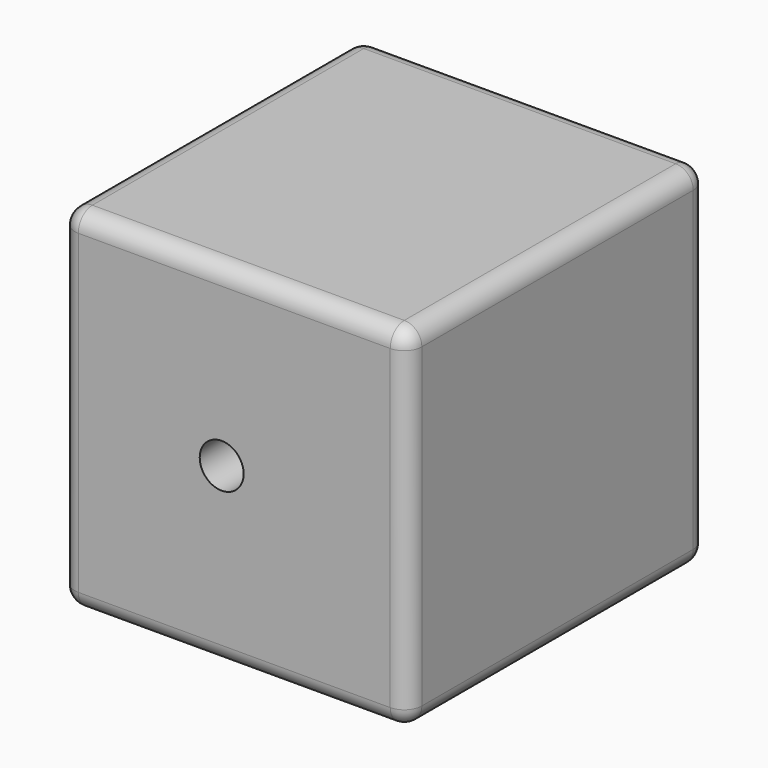
from build123d import *

# Parameters (mm, degrees)
F0_W     = 50.1882061362
F0_H     = 54.1358906776
F1_DEPTH = 50.8
F3_D     = 6.35
F3_DEPTH = 12.7
F3_TIP   = 1.9077324654
F5_D     = 6.35
F5_DEPTH = 2.54
F5_TIP   = 1.9077324654
F6_R     = 2.54


with BuildPart() as f1:
    # F0 (on Top) → F1 (new body)
    with BuildSketch(Plane.XY):
        with Locations((-3.0394289643, -15.3726739809)):
            Rectangle(F0_W, F0_H)
    extrude(amount=F1_DEPTH)

    # F3
    with Locations(Plane.XZ.offset(42.4406193197)):
        with Locations((-4.8604877666, 25.4)):
            Hole(F3_D / 2, depth=F3_DEPTH)
            with Locations((0, 0, -(F3_DEPTH + F3_TIP / 2))):  # 118° drill point
                Cone(0, F3_D / 2, F3_TIP, mode=Mode.SUBTRACT)

    # F5
    with Locations(Plane(origin=(0, 11.6952713579, 0), x_dir=(-1, 0, 0), z_dir=(0, 1, 0))):
        with Locations((12.5178480521, 13.5660590604), (0, 13.5907363147), (-14.3324285746, 13.1154032424), (-14.1831636429, 27.7787912637), (0, 29.508953914), (12.5623010099, 26.1896699667), (11.1412229016, 38.5132730007), (0, 39.2078347504), (-14.1831636429, 40.1023961604)):
            Hole(F5_D / 2, depth=F5_DEPTH)
            with Locations((0, 0, -(F5_DEPTH + F5_TIP / 2))):  # 118° drill point
                Cone(0, F5_D / 2, F5_TIP, mode=Mode.SUBTRACT)

    # F6
    f6_edges = [f1.edges().sort_by_distance(p)[0] for p in [
        (22.054674, -15.372674, 50.8),
        (-3.039429, 11.695271, 50.8),
        (-28.133532, -15.372674, 50.8),
        (-3.039429, -42.440619, 50.8),
        (22.054674, 11.695271, 25.4),
        (22.054674, -42.440619, 25.4),
        (22.054674, -15.372674, 0),
        (-3.039429, -42.440619, 0),
        (-28.133532, -15.372674, 0),
        (-28.133532, 11.695271, 25.4),
        (-3.039429, 11.695271, 0),
        (-28.133532, -42.440619, 25.4),
    ]]
    fillet(f6_edges, radius=F6_R)


solid = f1.part
